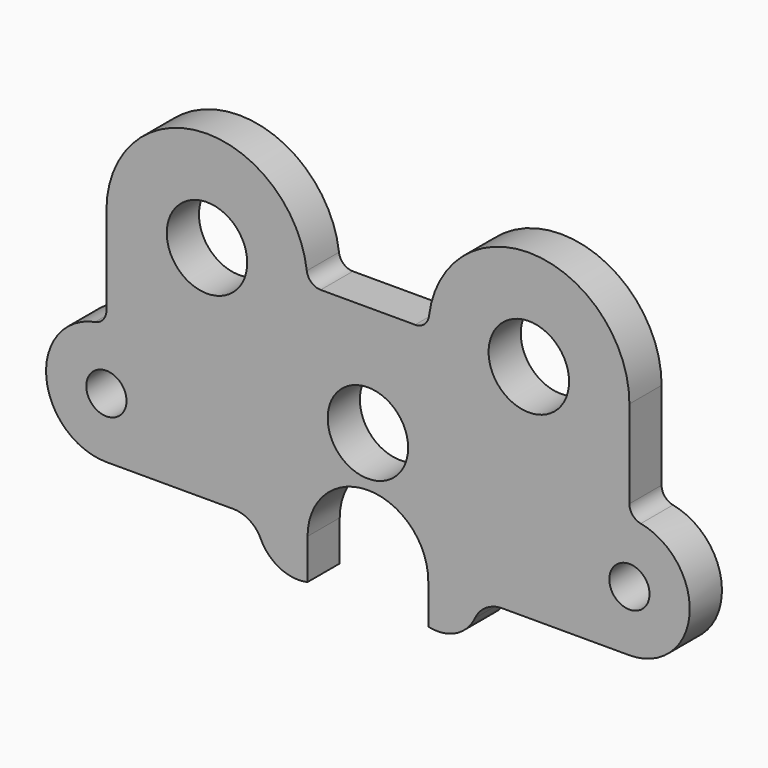
from build123d import *

# Parameters (mm, degrees)
F0_R     = 6.35
F0_R_2   = 12.7
F1_DEPTH = 12.7


with BuildPart() as f1:
    # F0 (on Front) → F1 (new body)
    with BuildSketch(Plane.XZ):
        with BuildLine():
            Line((14.906546, 69.85), (0, 69.85))
            Line((0, 69.85), (-14.906546, 69.85))
            ThreePointArc((-14.906546, 69.85), (-17.830929, 70.957797), (-19.287367, 73.72511))
            ThreePointArc((-19.287367, 73.72511), (-52.741186, 101.540603), (-82.55, 69.85))
            Line((-82.55, 69.85), (-82.55, 42.094935))
            ThreePointArc((-82.55, 42.094935), (-83.561867, 39.282725), (-86.133528, 37.759912))
            ThreePointArc((-86.133528, 37.759912), (-101.514788, 17.250185), (-82.55, 0))
            Line((-82.55, 0), (-42.455699, 0))
            ThreePointArc((-42.455699, 0), (-37.335817, -1.493037), (-33.82101, -5.504083))
            ThreePointArc((-33.82101, -5.504083), (-27.711599, -11.721469), (-19.05, -12.7))
            Line((-19.05, -12.7), (-19.05, 0))
            ThreePointArc((-19.05, 0), (0, 19.05), (19.05, 0))
            Line((19.05, 0), (19.05, -12.7))
            ThreePointArc((19.05, -12.7), (27.711599, -11.721469), (33.82101, -5.504083))
            ThreePointArc((33.82101, -5.504083), (37.335817, -1.493037), (42.455699, 0))
            Line((42.455699, 0), (82.55, 0))
            ThreePointArc((82.55, 0), (101.514788, 17.250185), (86.133528, 37.759912))
            ThreePointArc((86.133528, 37.759912), (83.561867, 39.282725), (82.55, 42.094935))
            Line((82.55, 42.094935), (82.55, 69.85))
            ThreePointArc((82.55, 69.85), (52.741186, 101.540603), (19.287367, 73.72511))
            ThreePointArc((19.287367, 73.72511), (17.830929, 70.957797), (14.906546, 69.85))
        make_face()
        with Locations((-82.55, 19.05)):
            Circle(F0_R, mode=Mode.SUBTRACT)
        with Locations((0, 34.925)):
            Circle(F0_R_2, mode=Mode.SUBTRACT)
        with Locations((82.55, 19.05)):
            Circle(F0_R, mode=Mode.SUBTRACT)
        with Locations((-50.8, 69.85)):
            Circle(F0_R_2, mode=Mode.SUBTRACT)
        with Locations((50.8, 69.85)):
            Circle(F0_R_2, mode=Mode.SUBTRACT)
    extrude(amount=-F1_DEPTH)


solid = f1.part
